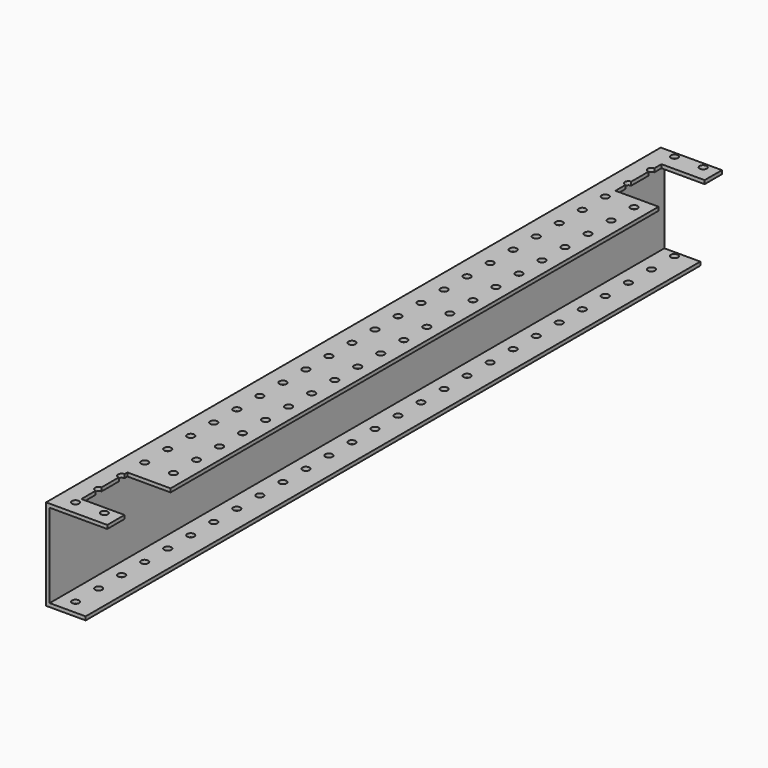
from build123d import *

# Parameters (mm, degrees)
F1_DEPTH = 677.8625
F2_W     = 38.1
F2_H     = 50.8
F3_DEPTH = 25.4
F4_R     = 3.175
F5_DEPTH = 101.6


with BuildPart() as f1:
    # F0 (on Front) → F1 (new body)
    with BuildSketch(Plane.XZ):
        Polygon((5.314447, 57.120183), (-48.660553, 57.120183), (-48.660553, -23.270817), (-13.735553, -23.270817), (-13.735553, -20.095817), (-45.485553, -20.095817), (-45.485553, 53.945183), (5.314447, 53.945183), align=None)
    extrude(amount=F1_DEPTH)

    # F2 (on face) → F3 (cut)
    with BuildSketch(Plane(origin=(0, 0, 53.945183), x_dir=(1, 0, 0), z_dir=(0, 0, -1))):
        with Locations((-13.735553, 44.45)):
            Rectangle(F2_W, F2_H)
        with Locations((-13.735553, 633.4125)):
            Rectangle(F2_W, F2_H)
    extrude(amount=-F3_DEPTH, mode=Mode.SUBTRACT)

    # F4 (on face) → F5 (cut)
    with BuildSketch(Plane.XY.offset(57.120183)):
        with Locations((-7.385553, -665.1625)):
            Circle(F4_R)
        with Locations((-7.385553, -639.7625)):
            Circle(F4_R)
        with Locations((-7.385553, -614.3625)):
            Circle(F4_R)
        with Locations((-7.385553, -588.9625)):
            Circle(F4_R)
        with Locations((-7.385553, -563.5625)):
            Circle(F4_R)
        with Locations((-7.385553, -538.1625)):
            Circle(F4_R)
        with Locations((-7.385553, -512.7625)):
            Circle(F4_R)
        with Locations((-7.385553, -487.3625)):
            Circle(F4_R)
        with Locations((-7.385553, -461.9625)):
            Circle(F4_R)
        with Locations((-7.385553, -436.5625)):
            Circle(F4_R)
        with Locations((-7.385553, -411.1625)):
            Circle(F4_R)
        with Locations((-7.385553, -385.7625)):
            Circle(F4_R)
        with Locations((-7.385553, -360.3625)):
            Circle(F4_R)
        with Locations((-7.385553, -334.9625)):
            Circle(F4_R)
        with Locations((-7.385553, -309.5625)):
            Circle(F4_R)
        with Locations((-7.385553, -284.1625)):
            Circle(F4_R)
        with Locations((-7.385553, -258.7625)):
            Circle(F4_R)
        with Locations((-7.385553, -233.3625)):
            Circle(F4_R)
        with Locations((-7.385553, -207.9625)):
            Circle(F4_R)
        with Locations((-7.385553, -182.5625)):
            Circle(F4_R)
        with Locations((-7.385553, -157.1625)):
            Circle(F4_R)
        with Locations((-7.385553, -131.7625)):
            Circle(F4_R)
        with Locations((-7.385553, -106.3625)):
            Circle(F4_R)
        with Locations((-7.385553, -80.9625)):
            Circle(F4_R)
        with Locations((-7.385553, -55.5625)):
            Circle(F4_R)
        with Locations((-7.385553, -30.1625)):
            Circle(F4_R)
        with Locations((-7.385553, -4.7625)):
            Circle(F4_R)
        with Locations((-32.785553, -665.1625)):
            Circle(F4_R)
        with Locations((-32.785553, -639.7625)):
            Circle(F4_R)
        with Locations((-32.785553, -614.3625)):
            Circle(F4_R)
        with Locations((-32.785553, -588.9625)):
            Circle(F4_R)
        with Locations((-32.785553, -563.5625)):
            Circle(F4_R)
        with Locations((-32.785553, -538.1625)):
            Circle(F4_R)
        with Locations((-32.785553, -512.7625)):
            Circle(F4_R)
        with Locations((-32.785553, -487.3625)):
            Circle(F4_R)
        with Locations((-32.785553, -461.9625)):
            Circle(F4_R)
        with Locations((-32.785553, -436.5625)):
            Circle(F4_R)
        with Locations((-32.785553, -411.1625)):
            Circle(F4_R)
        with Locations((-32.785553, -385.7625)):
            Circle(F4_R)
        with Locations((-32.785553, -360.3625)):
            Circle(F4_R)
        with Locations((-32.785553, -334.9625)):
            Circle(F4_R)
        with Locations((-32.785553, -309.5625)):
            Circle(F4_R)
        with Locations((-32.785553, -284.1625)):
            Circle(F4_R)
        with Locations((-32.785553, -258.7625)):
            Circle(F4_R)
        with Locations((-32.785553, -233.3625)):
            Circle(F4_R)
        with Locations((-32.785553, -207.9625)):
            Circle(F4_R)
        with Locations((-32.785553, -182.5625)):
            Circle(F4_R)
        with Locations((-32.785553, -157.1625)):
            Circle(F4_R)
        with Locations((-32.785553, -131.7625)):
            Circle(F4_R)
        with Locations((-32.785553, -106.3625)):
            Circle(F4_R)
        with Locations((-32.785553, -80.9625)):
            Circle(F4_R)
        with Locations((-32.785553, -55.5625)):
            Circle(F4_R)
        with Locations((-32.785553, -30.1625)):
            Circle(F4_R)
        with Locations((-32.785553, -4.7625)):
            Circle(F4_R)
    extrude(amount=-F5_DEPTH, mode=Mode.SUBTRACT)


solid = f1.part
